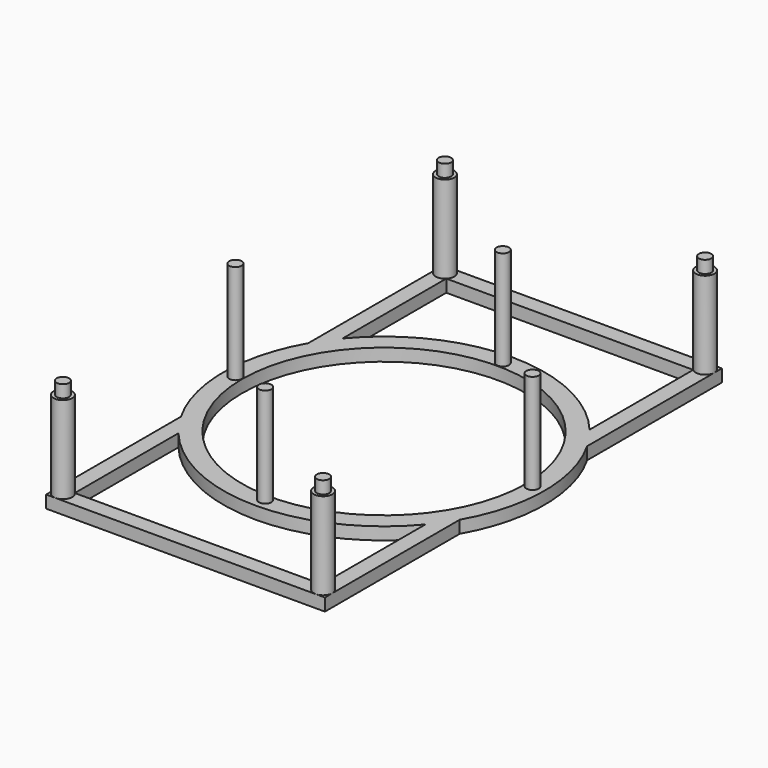
from build123d import *

# Parameters (mm, degrees)
F0_R     = 3.175
F0_R_2   = 72.39
F1_DEPTH = 6.35
F2_DEPTH = 50.8
F3_DEPTH = 57.15
F4_DEPTH = 57.15


with BuildPart() as f1:
    # F0 (on Top) → F1 (new body)
    with BuildSketch(Plane.XY):
        with BuildLine():
            Line((-63.0026039546, 52.3520689175), (-63.0026039546, 118.4635039546))
            ThreePointArc((-63.0026039546, 118.4635039546), (-68.1927298466, 117.4311237264), (-71.1327, 121.8311))
            Line((-71.1327, 121.8311), (-71.1327, 40.6227302838))
            ThreePointArc((-71.1327, 40.6227302838), (-81.915, 0), (-71.1327, -40.6227302838))
            Line((-71.1327, -40.6227302838), (-71.1327, -121.8311))
            ThreePointArc((-71.1327, -121.8311), (-68.1927298466, -117.4311237264), (-63.0026039546, -118.4635039546))
            Line((-63.0026039546, -118.4635039546), (-63.0026039546, -52.3520689175))
            ThreePointArc((-63.0026039546, -52.3520689175), (0, -81.915), (63.0026039546, -52.3520689175))
            Line((63.0026039546, -52.3520689175), (63.0026039546, -118.4635039546))
            ThreePointArc((63.0026039546, -118.4635039546), (68.1927298466, -117.4311237264), (71.1327, -121.8311))
            Line((71.1327, -121.8311), (71.1327, -40.6227302838))
            ThreePointArc((71.1327, -40.6227302838), (81.915, 0), (71.1327, 40.6227302838))
            Line((71.1327, 40.6227302838), (71.1327, 121.8311))
            ThreePointArc((71.1327, 121.8311), (68.1927298466, 117.4311237264), (63.0026039546, 118.4635039546))
            Line((63.0026039546, 118.4635039546), (63.0026039546, 52.3520689175))
            ThreePointArc((63.0026039546, 52.3520689175), (0, 81.915), (-63.0026039546, 52.3520689175))
        make_face()
        with Locations((0, -75.7809)):
            Circle(F0_R, mode=Mode.SUBTRACT)
        with Locations((-75.7809, 0)):
            Circle(F0_R, mode=Mode.SUBTRACT)
        Circle(F0_R_2, mode=Mode.SUBTRACT)
        with Locations((75.7809, 0)):
            Circle(F0_R, mode=Mode.SUBTRACT)
        with Locations((0, 75.7809)):
            Circle(F0_R, mode=Mode.SUBTRACT)
    extrude(amount=F1_DEPTH)



with BuildPart() as f1b:
    # F0 (on Top) → F1, piece 2 (new body)
    with BuildSketch(Plane.XY):
        with BuildLine():
            ThreePointArc((-61.6077, 121.8311), (-61.9702237264, 120.0085701534), (-63.0026039546, 118.4635039546))
            Line((-63.0026039546, 118.4635039546), (63.0026039546, 118.4635039546))
            ThreePointArc((63.0026039546, 118.4635039546), (61.9702237264, 123.6536298466), (66.3702, 126.5936))
            Line((66.3702, 126.5936), (-66.3702, 126.5936))
            ThreePointArc((-66.3702, 126.5936), (-63.0026039546, 125.1986960454), (-61.6077, 121.8311))
        make_face()
    extrude(amount=F1_DEPTH)


with BuildPart() as f1c:
    # F0 (on Top) → F1, piece 3 (new body)
    with BuildSketch(Plane.XY):
        with BuildLine():
            Line((63.0026039546, -118.4635039546), (-63.0026039546, -118.4635039546))
            ThreePointArc((-63.0026039546, -118.4635039546), (-61.9702237264, -120.0085701534), (-61.6077, -121.8311))
            ThreePointArc((-61.6077, -121.8311), (-63.0026039546, -125.1986960454), (-66.3702, -126.5936))
            Line((-66.3702, -126.5936), (66.3702, -126.5936))
            ThreePointArc((66.3702, -126.5936), (61.9702237264, -123.6536298466), (63.0026039546, -118.4635039546))
        make_face()
    extrude(amount=F1_DEPTH)


with BuildPart() as f1d:
    # F0 (on Top) → F1, piece 4 (new body)
    with BuildSketch(Plane.XY):
        with BuildLine():
            ThreePointArc((-66.3702, -126.5936), (-69.7377960454, -125.1986960454), (-71.1327, -121.8311))
            Line((-71.1327, -121.8311), (-71.1327, -126.5936))
            Line((-71.1327, -126.5936), (-66.3702, -126.5936))
        make_face()
    extrude(amount=F1_DEPTH)


with BuildPart() as f1e:
    # F0 (on Top) → F1, piece 5 (new body)
    with BuildSketch(Plane.XY):
        with BuildLine():
            Line((71.1327, -126.5936), (71.1327, -121.8311))
            ThreePointArc((71.1327, -121.8311), (69.7377960454, -125.1986960454), (66.3702, -126.5936))
            Line((66.3702, -126.5936), (71.1327, -126.5936))
        make_face()
    extrude(amount=F1_DEPTH)


with BuildPart() as f1f:
    # F0 (on Top) → F1, piece 6 (new body)
    with BuildSketch(Plane.XY):
        with BuildLine():
            Line((-71.1327, 126.5936), (-71.1327, 121.8311))
            ThreePointArc((-71.1327, 121.8311), (-69.7377960454, 125.1986960454), (-66.3702, 126.5936))
            Line((-66.3702, 126.5936), (-71.1327, 126.5936))
        make_face()
    extrude(amount=F1_DEPTH)


with BuildPart() as f1g:
    # F0 (on Top) → F1, piece 7 (new body)
    with BuildSketch(Plane.XY):
        with BuildLine():
            ThreePointArc((66.3702, 126.5936), (69.7377960454, 125.1986960454), (71.1327, 121.8311))
            Line((71.1327, 121.8311), (71.1327, 126.5936))
            Line((71.1327, 126.5936), (66.3702, 126.5936))
        make_face()
    extrude(amount=F1_DEPTH)


with BuildPart() as f1_1:
    add(f1.part)

    add(f1b.part)  # F2 merges F1b

    add(f1c.part)  # F2 merges F1c

    add(f1d.part)  # F2 merges F1d

    add(f1e.part)  # F2 merges F1e

    add(f1f.part)  # F2 merges F1f

    add(f1g.part)  # F2 merges F1g
    # F0 (on Top) → F2 (join)
    with BuildSketch(Plane.XY):
        with BuildLine():
            ThreePointArc((-71.1327, 121.8311), (-68.1927298466, 117.4311237264), (-63.0026039546, 118.4635039546))
            ThreePointArc((-63.0026039546, 118.4635039546), (-61.9702237264, 120.0085701534), (-61.6077, 121.8311))
            ThreePointArc((-61.6077, 121.8311), (-63.0026039546, 125.1986960454), (-66.3702, 126.5936))
            ThreePointArc((-66.3702, 126.5936), (-69.7377960454, 125.1986960454), (-71.1327, 121.8311))
        make_face()
        with Locations((-66.3702, 121.8311)):
            Circle(F0_R, mode=Mode.SUBTRACT)
        with BuildLine():
            ThreePointArc((66.3702, 126.5936), (61.9702237264, 123.6536298466), (63.0026039546, 118.4635039546))
            ThreePointArc((63.0026039546, 118.4635039546), (68.1927298466, 117.4311237264), (71.1327, 121.8311))
            ThreePointArc((71.1327, 121.8311), (69.7377960454, 125.1986960454), (66.3702, 126.5936))
        make_face()
        with Locations((66.3702, 121.8311)):
            Circle(F0_R, mode=Mode.SUBTRACT)
        with BuildLine():
            ThreePointArc((-63.0026039546, -118.4635039546), (-68.1927298466, -117.4311237264), (-71.1327, -121.8311))
            ThreePointArc((-71.1327, -121.8311), (-69.7377960454, -125.1986960454), (-66.3702, -126.5936))
            ThreePointArc((-66.3702, -126.5936), (-63.0026039546, -125.1986960454), (-61.6077, -121.8311))
            ThreePointArc((-61.6077, -121.8311), (-61.9702237264, -120.0085701534), (-63.0026039546, -118.4635039546))
        make_face()
        with Locations((-66.3702, -121.8311)):
            Circle(F0_R, mode=Mode.SUBTRACT)
        with BuildLine():
            ThreePointArc((66.3702, -126.5936), (69.7377960454, -125.1986960454), (71.1327, -121.8311))
            ThreePointArc((71.1327, -121.8311), (68.1927298466, -117.4311237264), (63.0026039546, -118.4635039546))
            ThreePointArc((63.0026039546, -118.4635039546), (61.9702237264, -123.6536298466), (66.3702, -126.5936))
        make_face()
        with Locations((66.3702, -121.8311)):
            Circle(F0_R, mode=Mode.SUBTRACT)
    extrude(amount=F2_DEPTH)

    # F0 (on Top) → F3 (join)
    with BuildSketch(Plane.XY):
        with Locations((66.3702, -121.8311)):
            Circle(F0_R)
        with Locations((-66.3702, -121.8311)):
            Circle(F0_R)
        with Locations((66.3702, 121.8311)):
            Circle(F0_R)
        with Locations((-66.3702, 121.8311)):
            Circle(F0_R)
    extrude(amount=F3_DEPTH)

    # F0 (on Top) → F4 (join)
    with BuildSketch(Plane.XY):
        with Locations((0, 75.7809)):
            Circle(F0_R)
        with Locations((-75.7809, 0)):
            Circle(F0_R)
        with Locations((75.7809, 0)):
            Circle(F0_R)
        with Locations((0, -75.7809)):
            Circle(F0_R)
    extrude(amount=F4_DEPTH)


solid = f1_1.part
